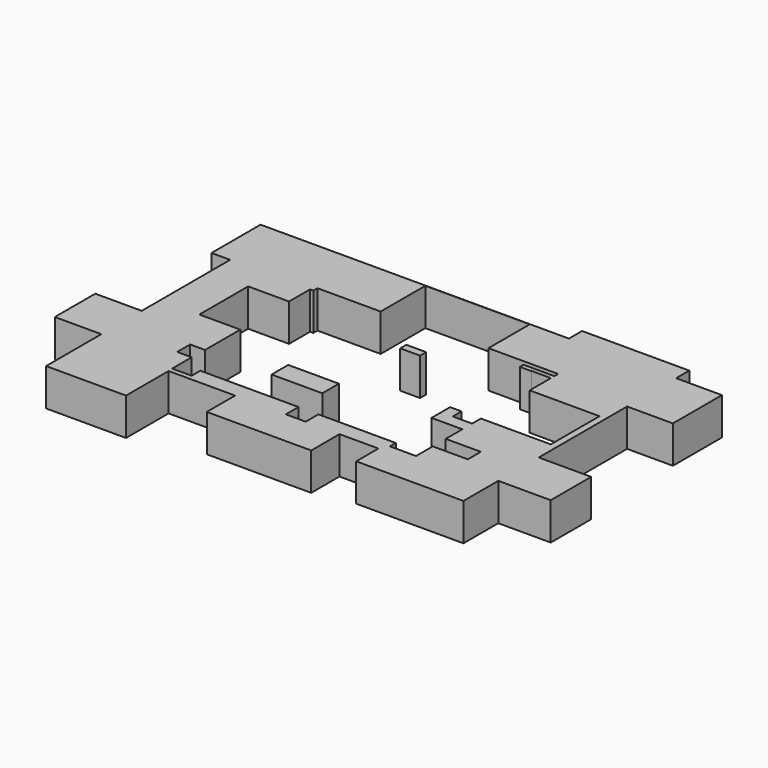
from build123d import *

# Parameters (mm, degrees)
F0_W     = 54.3858930469
F0_H     = 34.2406090349
F0_W_2   = 31.1571955681
F0_H_2   = 41.6999291629
F0_W_3   = 72.9609392583
F0_H_3   = 11.1721456051
F0_W_4   = 26.4839343727
F0_H_4   = 10.7772946358
F0_W_5   = 31.6282212734
F0_H_5   = 34.3817844987
F0_W_6   = 35.6785953045
F1_DEPTH = 25.4
F0_W_7   = 13.523530215
F0_H_6   = 5.1841237582


with BuildPart() as f1:
    # F0 (on Top) → F1 (new body)
    with BuildSketch(Plane.XY):
        Polygon((34.915599972, 26.1683743447), (34.915599972, 23.0544600636), (42.7131541073, 23.0544600636), (42.7131541073, 23.2863482088), (55.8821521699, 23.2863482088), (55.8821521699, 23.0544600636), (107.8765392303, 23.0544600636), (107.8765392303, 64.7543892264), (34.915599972, 64.7543892264), (34.915599972, 29.4287577271), (55.8821521699, 29.4287577271), (55.8821521699, 26.1683743447), align=None)
        Polygon((42.7131541073, -36.2965688109), (34.915599972, -36.2965688109), (34.915599972, -52.1109029651), (38.1341129541, -52.1109029651), (55.8821521699, -52.1109029651), (107.8765392303, -52.1109029651), (107.8765392303, 23.0544600636), (55.8821521699, 23.0544600636), (55.8821521699, 5.1841237582), (103.417776525, 5.1841237582), (103.417776525, -36.2965688109), (55.8821521699, -36.2965688109), (55.8821521699, -43.7775962055), (42.7131541073, -43.7775962055), align=None)
        Polygon((-135.6828808784, 5.1841237582), (-107.8615859151, 5.1841237582), (-107.8615859151, 23.0544600636), (-162.2474789619, 23.0544600636), (-162.2474789619, -52.1109029651), (-107.8615859151, -52.1109029651), (-107.8615859151, -36.2965688109), (-135.6828808784, -36.2965688109), align=None)
        Polygon((-105.583652854, 26.5505686402), (-62.614031136, 26.5505686402), (-62.614031136, 64.5622834563), (8.4316655993, 64.5622834563), (8.4316655993, 29.4287577271), (34.915599972, 29.4287577271), (34.915599972, 64.7543892264), (-174.906656146, 64.7543892264), (-174.906656146, 23.0544600636), (-162.2474789619, 23.0544600636), (-162.2474789619, 57.2950690985), (-107.8615859151, 57.2950690985), (-107.8615859151, 23.0544600636), (-105.583652854, 23.0544600636), align=None)
        with Locations((-135.0545324385, 40.174764581)):
            Rectangle(F0_W, F0_H)
        Polygon((-107.8615859151, -65.1790574193), (-107.8615859151, -52.1109029651), (-162.2474789619, -52.1109029651), (-162.2474789619, -86.4926874638), (-108.1507131457, -86.4926874638), (-108.1507131457, -77.2911310196), (-118.0093511939, -77.2911310196), (-118.0093511939, -66.2388503551), (-107.8615859151, -66.2388503551), align=None)
        with Locations((123.4551370144, 43.904424645)):
            Rectangle(F0_W_2, F0_H_2)
        with Locations((71.3960696012, 70.340462029)):
            Rectangle(F0_W_3, F0_H_3)
        Polygon((8.4316655993, -86.4926874638), (-14.5569872111, -86.4926874638), (-14.5569872111, -97.2699820995), (-28.0805174261, -97.2699820995), (-28.0805174261, -86.4926874638), (-62.614031136, -86.4926874638), (-62.614031136, -97.2699820995), (-62.614031136, -121.3240176439), (8.4316655993, -121.3240176439), (8.4316655993, -97.2699820995), align=None)
        with Locations((21.6736327857, -91.8813347816)):
            Rectangle(F0_W_4, F0_H_4)
        Polygon((107.8765392303, -52.1109029651), (55.8821521699, -52.1109029651), (55.8821521699, -66.2388503551), (79.7686055303, -66.2388503551), (79.7686055303, -77.2911310196), (55.8821521699, -77.2911310196), (55.8821521699, -86.4926874638), (107.8765392303, -86.4926874638), align=None)
        with Locations((-178.0615895987, -69.3017952144)):
            Rectangle(F0_W_5, F0_H_5)
        with Locations((125.7158368826, -69.3017952144)):
            Rectangle(F0_W_6, F0_H_5)
        Polygon((38.1341129541, -86.4926874638), (34.915599972, -86.4926874638), (34.915599972, -97.2699820995), (34.915599972, -116.1351576447), (107.8765392303, -116.1351576447), (107.8765392303, -86.4926874638), (55.8821521699, -86.4926874638), (55.8821521699, -91.4830863476), (38.1341129541, -91.4830863476), align=None)
        Polygon((-108.1507131457, -86.4926874638), (-162.2474789619, -86.4926874638), (-162.2474789619, -133.4793567657), (-107.8615859151, -133.4793567657), (-107.8615859151, -97.2699820995), (-107.8615859151, -93.911677599), (-108.1507131457, -93.911677599), align=None)
        Polygon((-62.614031136, -97.2699820995), (-62.614031136, -86.4926874638), (-94.9210748076, -86.4926874638), (-94.9210748076, -93.911677599), (-107.8615859151, -93.911677599), (-107.8615859151, -97.2699820995), align=None)
    extrude(amount=F1_DEPTH)


with BuildPart() as f1b:
    # F0 (on Top) → F1, piece 2 (new body)
    with BuildSketch(Plane.XY):
        with Locations((-21.3187523186, 2.5920618791)):
            Rectangle(F0_W_7, F0_H_6)
    extrude(amount=F1_DEPTH)


with BuildPart() as f1c:
    # F0 (on Top) → F1, piece 3 (new body)
    with BuildSketch(Plane.XY):
        Polygon((-28.0805174261, -66.2388503551), (-28.0805174261, -52.1109029651), (-39.6157763898, -52.1109029651), (-62.614031136, -52.1109029651), (-62.614031136, -66.2388503551), align=None)
    extrude(amount=F1_DEPTH)


solid = Compound([f1.part, f1b.part, f1c.part])
